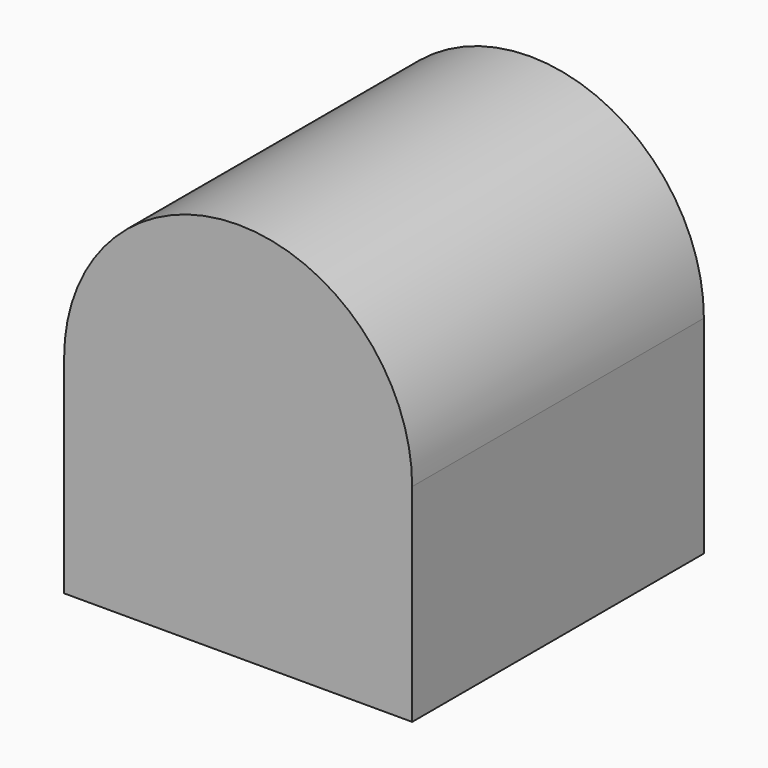
from build123d import *

# Parameters (mm, degrees)
F0_R     = 5
F1_DEPTH = 3
F3_DEPTH = 20
F5_DEPTH = 2
F6_W     = 5
F6_H     = 5
F7_DEPTH = 5


with BuildPart() as f1:
    # F0 (on Front) → F1 (new body)
    with BuildSketch(Plane.XZ):
        with BuildLine():
            Line((7.5, -12.5), (7.5, 0))
            ThreePointArc((7.5, 0), (0, 7.5), (-7.5, 0))
            Line((-7.5, 0), (-7.5, -12.5))
            Line((-7.5, -12.5), (7.5, -12.5))
        make_face()
        Circle(F0_R, mode=Mode.SUBTRACT)
    extrude(amount=F1_DEPTH)

    # F2 (on Front) → F3 (join)
    with BuildSketch(Plane.XZ):
        with BuildLine():
            Line((10.5, -12.5), (10.5, 0))
            ThreePointArc((10.5, 0), (0, 10.5), (-10.5, 0))
            Line((-10.5, 0), (-10.5, -12.5))
            Line((-10.5, -12.5), (-7.5, -12.5))
            Line((-7.5, -12.5), (-7.5, 0))
            ThreePointArc((-7.5, 0), (0, 7.5), (7.5, 0))
            Line((7.5, 0), (7.5, -12.5))
            Line((7.5, -12.5), (10.5, -12.5))
        make_face()
    extrude(amount=F3_DEPTH)

    # F4 (on face) → F5 (join)
    with BuildSketch(Plane.XZ.offset(20)):
        with BuildLine():
            Line((10.5, -12.5), (10.5, 0))
            ThreePointArc((10.5, 0), (0, 10.5), (-10.5, 0))
            Line((-10.5, 0), (-10.5, -12.5))
            Line((-10.5, -12.5), (10.5, -12.5))
        make_face()
    extrude(amount=F5_DEPTH)

    # F6 (on face) → F7 (cut)
    with BuildSketch(Plane(origin=(-10.5, 0, 0), x_dir=(0, -1, 0), z_dir=(-1, 0, 0))):
        with Locations((17.5, -5)):
            Rectangle(F6_W, F6_H)
    extrude(amount=-F7_DEPTH, mode=Mode.SUBTRACT)


solid = f1.part
